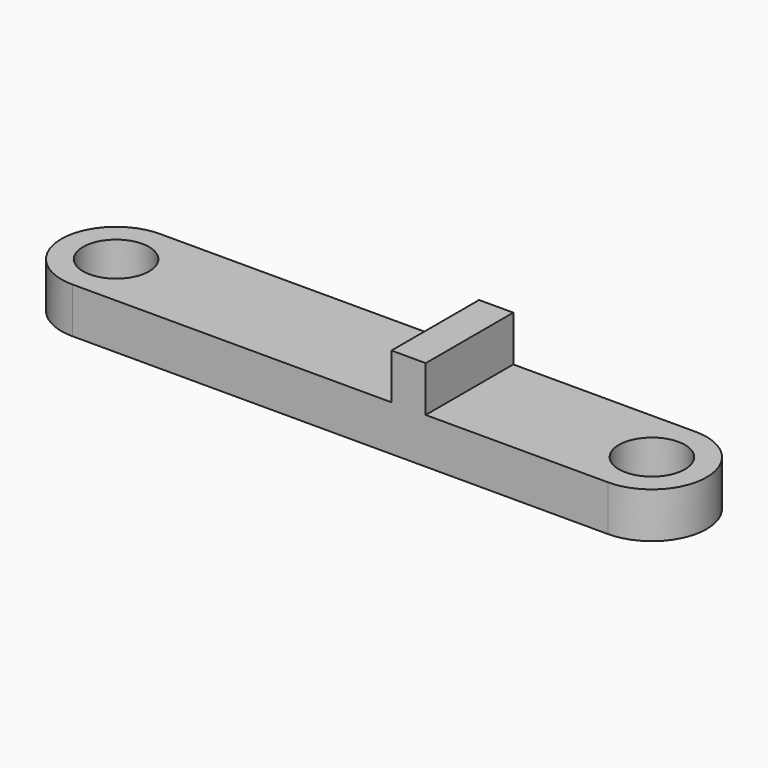
from build123d import *

# Parameters (mm, degrees)
PAD_DEPTH    = 2
SKETCH001_R  = 1.45
POCKET_DEPTH = 2.001
SKETCH002_W  = 1.5
SKETCH002_H  = 4.8
PAD001_DEPTH = 2


with BuildPart() as part:
    # Sketch → Pad (new body)
    with BuildSketch(Plane.XY):
        with BuildLine():
            ThreePointArc((0, 2.4), (-2.4, 0), (0, -2.4))
            Line((0, -2.4), (23.5, -2.4))
            ThreePointArc((23.5, -2.4), (25.9, 0), (23.5, 2.4))
            Line((0, 2.4), (23.5, 2.4))
        make_face()
    extrude(amount=-PAD_DEPTH)

    # Sketch001 → Pocket (cut, through all)
    with BuildSketch(Plane.XY):
        Circle(SKETCH001_R)
        with Locations((23.5, 0)):
            Circle(SKETCH001_R)
    extrude(amount=-POCKET_DEPTH, mode=Mode.SUBTRACT)

    # Sketch002 → Pad001 (join)
    with BuildSketch(Plane.XY):
        with Locations((14.75, 0)):
            Rectangle(SKETCH002_W, SKETCH002_H)
    extrude(amount=PAD001_DEPTH)


solid = part.part
